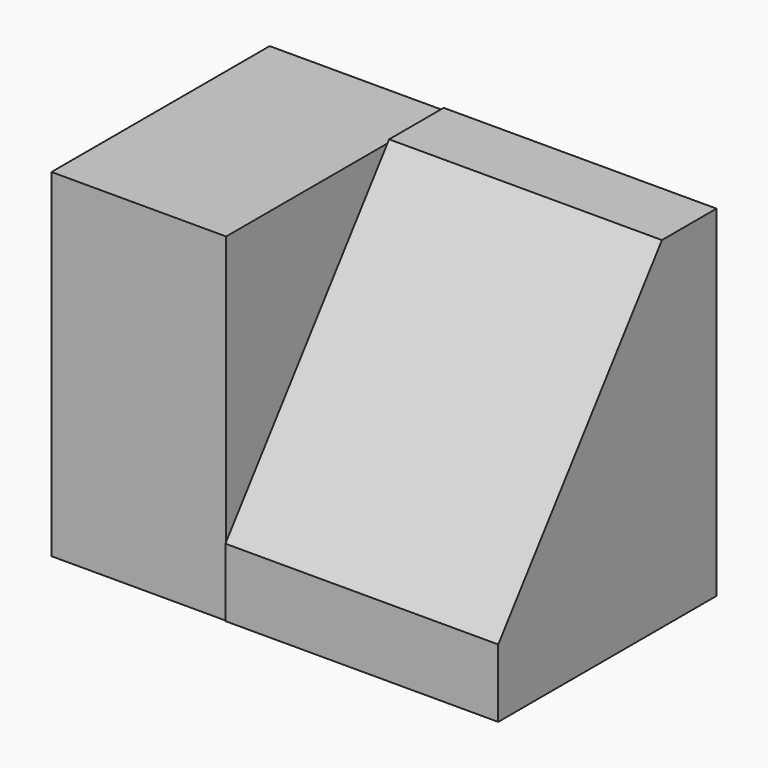
from build123d import *

# Parameters (mm, degrees)
F1_DEPTH = 25.4
F2_W     = 16.2587165833
F2_H     = 25.3864186816
F3_DEPTH = 31.496


with BuildPart() as f1:
    # F0 (on Right) → F1 (new body)
    with BuildSketch(Plane.YZ):
        Polygon((6.35, 31.75), (0, 31.75), (-19.05, 6.35), (-19.05, 0), (6.35, 0), align=None)
        Polygon((6.35, 31.75), (0, 31.75), (-19.05, 6.35), (-19.05, 0), (6.35, 0), align=None)
    extrude(amount=F1_DEPTH)

    # F2 (on Top) → F3 (join)
    with BuildSketch(Plane.XY):
        with Locations((-8.1293582916, -6.2752945814)):
            Rectangle(F2_W, F2_H)
    extrude(amount=F3_DEPTH)


solid = f1.part
